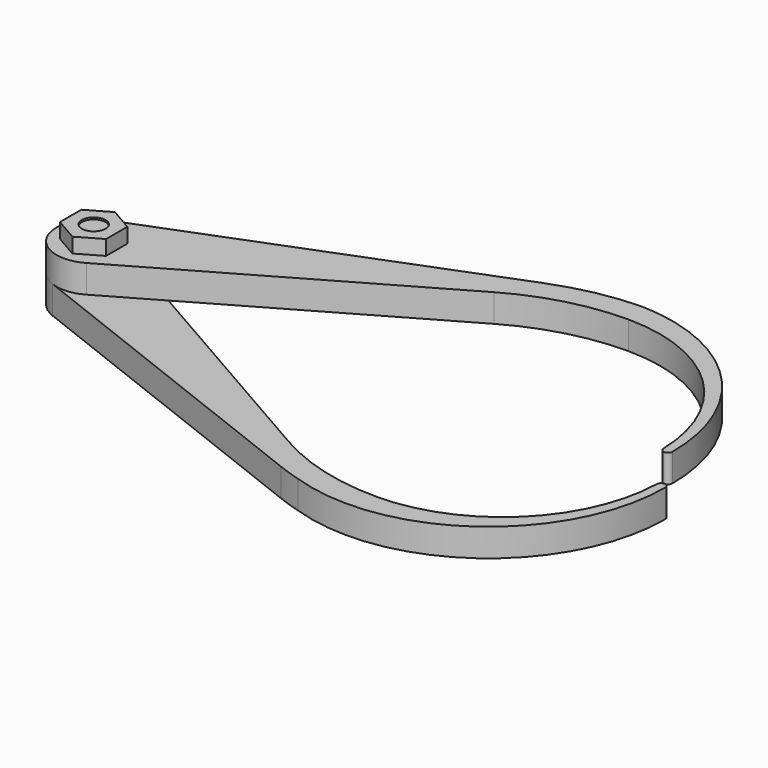
from build123d import *

# Parameters (mm, degrees)
SKETCH_R     = 4.064
PAD_DEPTH    = 9.525
SKETCH001_R  = 4.064
PAD001_DEPTH = 9.525
SKETCH003_R  = 4.064
PAD002_DEPTH = 5.08


with BuildPart() as part:
    # Sketch → Pad (new body)
    with BuildSketch(Plane.XY):
        with BuildLine():
            ThreePointArc((-144.318782, 11.830336), (-151.154883, -5.484128), (-133.38078, -11.016236))
            Line((-133.38078, -11.016236), (-37.915323, 43.745415))
            ThreePointArc((0, 53.848), (-19.619085, 51.27905), (-37.915323, 43.745415))
            ThreePointArc((53.828235, 1.458858), (37.55696, 38.588623), (0, 53.848))
            ThreePointArc((53.828235, 1.458858), (55.372013, -0.023718), (56.875675, 1.49953))
            ThreePointArc((56.875675, 1.49953), (39.754066, 43.677552), (-1.936644, 61.953759))
            ThreePointArc((-1.936644, 61.953759), (-16.5545, 60.335122), (-30.668818, 56.201391))
            Line((-144.318782, 11.830336), (-30.668818, 56.201391))
        make_face()
        with Locations((-139.7, 0)):
            Circle(SKETCH_R, mode=Mode.SUBTRACT)
    extrude(amount=PAD_DEPTH)

    # Sketch001 → Pad001 (join)
    with BuildSketch(Plane.XY):
        with BuildLine():
            ThreePointArc((-133.380814, 11.016256), (-151.154886, 5.484122), (-144.318806, -11.830327))
            Line((-144.318806, -11.830327), (-30.668705, -56.201435))
            ThreePointArc((-30.668705, -56.201435), (-26.79139, -57.606946), (-22.849994, -58.821206))
            ThreePointArc((-22.849994, -58.821206), (31.713299, -50.606452), (56.875675, -1.49953))
            ThreePointArc((56.875675, -1.49953), (55.372013, 0.023718), (53.828235, -1.458858))
            ThreePointArc((0, -53.848), (37.55696, -38.588623), (53.828235, -1.458858))
            ThreePointArc((-37.915307, -43.745424), (-19.619076, -51.279052), (0, -53.848))
            Line((-133.380814, 11.016256), (-37.915307, -43.745424))
        make_face()
        with Locations((-139.7, 0)):
            Circle(SKETCH001_R, mode=Mode.SUBTRACT)
    extrude(amount=-PAD001_DEPTH)

    # Sketch002 → Revolution (revolve)
    with BuildSketch(Plane.XZ):
        with BuildLine():
            ThreePointArc((-139.7, -13.589), (-136.487126, -13.067622), (-133.604, -11.557))
            Line((-133.604, -9.525), (-133.604, -11.557))
            Line((-135.636, -9.525), (-133.604, -9.525))
            Line((-135.636, 13.97), (-135.636, -9.525))
            Line((-139.7, 13.97), (-135.636, 13.97))
            Line((-139.7, -13.589), (-139.7, 13.97))
        make_face()
    revolve(axis=Axis((-139.7, 0, 63.5), (0, 0, -1)))

    # Sketch003 (on DatumPlane) → Pad002 (join)
    with BuildSketch(Plane.XY.offset(9.525)):
        Polygon((-131.826, 4.546056), (-139.7, 9.092112), (-147.574, 4.546056), (-147.574, -4.546056), (-139.7, -9.092112), (-131.826, -4.546056), align=None)
        with Locations((-139.7, 0)):
            Circle(SKETCH003_R, mode=Mode.SUBTRACT)
    extrude(amount=PAD002_DEPTH)


solid = part.part
